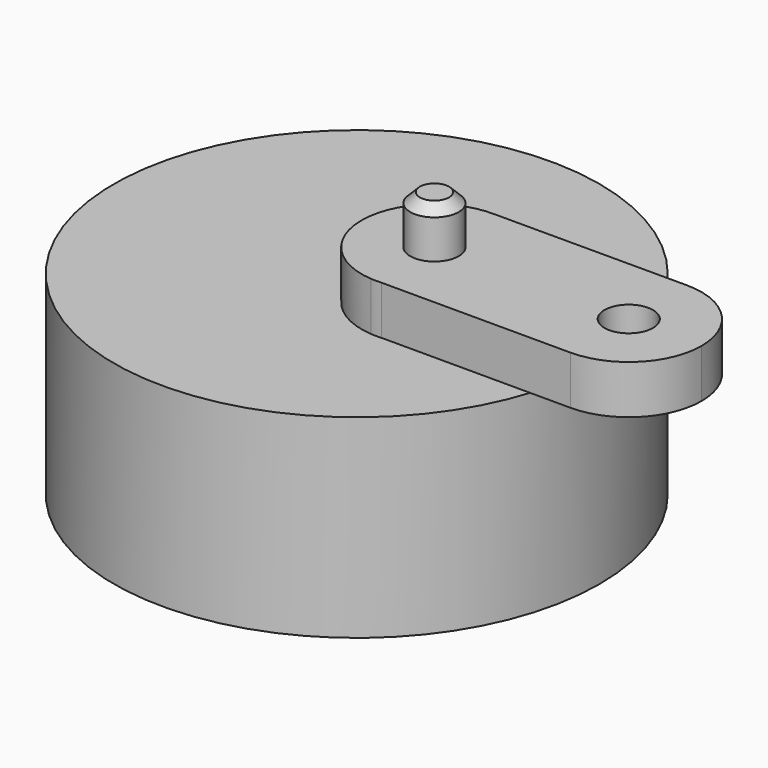
from build123d import *

# Parameters (mm, degrees)
F0_R          = 50
F1_DEPTH      = 20
F1_DEPTH_BACK = 20
F2_R          = 5
F3_DEPTH      = 40.001
F4_R          = 5
F5_DEPTH      = 40
F6_SIZE       = 2
F7_R          = 5
F8_DEPTH      = 10
F9_R          = 5
F10_DEPTH     = 50.001


with BuildPart() as f1:
    # F0 (on Top) → F1 (new body, two sides)
    with BuildSketch(Plane.XY) as f1_sk:
        Circle(F0_R)
    extrude(amount=F1_DEPTH)
    extrude(f1_sk.sketch, amount=-F1_DEPTH_BACK)

    # F2 (on face) → F3 (cut, through all)
    with BuildSketch(Plane.XY.offset(20)):
        with Locations((16, 0)):
            Circle(F2_R)
    extrude(amount=-F3_DEPTH, mode=Mode.SUBTRACT)


with BuildPart() as f5:
    # F4 (on Top) → F5 (new body)
    with BuildSketch(Plane.XY):
        with Locations((16, 0)):
            Circle(F4_R)
    extrude(amount=F5_DEPTH)

    # F6
    f6_edges = [f5.edges().sort_by_distance(p)[0] for p in [
        (11, 0, 40),
        (11, 0, 0),
    ]]
    chamfer(f6_edges, length=F6_SIZE)


with BuildPart() as f8:
    # F7 (on face) → F8 (new body)
    with BuildSketch(Plane.XY.offset(20)):
        with BuildLine():
            ThreePointArc((17.066113, -14.962065), (26.97706, -10.222727), (31, 0))
            ThreePointArc((31, 0), (26.744821, 10.466557), (16.39349, 14.994838))
            ThreePointArc((16.39349, 14.994838), (1.018492, 0.744586), (14.904727, -14.959959))
            Line((14.904727, -14.959959), (17.066113, -14.962065))
        make_face()
        with Locations((16, 0)):
            Circle(F7_R, mode=Mode.SUBTRACT)
        with BuildLine():
            ThreePointArc((16.39349, 14.994838), (26.744821, 10.466557), (31, 0))
            ThreePointArc((31, 0), (26.97706, -10.222727), (17.066113, -14.962065))
            Line((17.066113, -14.962065), (55.985382, -14.999993))
            ThreePointArc((55.985382, -14.999993), (41.000001, 0.006331), (55.998045, 15))
            Line((55.998045, 15), (16.39349, 14.994838))
        make_face()
        with BuildLine():
            ThreePointArc((14.904727, -14.959959), (15.985382, -14.999993), (17.066113, -14.962065))
            Line((17.066113, -14.962065), (14.904727, -14.959959))
        make_face()
        with BuildLine():
            ThreePointArc((71, 0), (66.60591, 10.607293), (55.998045, 15))
            ThreePointArc((55.998045, 15), (41.000001, 0.006331), (55.985382, -14.999993))
            ThreePointArc((55.985382, -14.999993), (66.601432, -10.611769), (71, 0))
        make_face()
    extrude(amount=F8_DEPTH)

    # F9 (on face) → F10 (cut, through all)
    with BuildSketch(Plane.XY.offset(30)):
        with Locations((56, 0)):
            Circle(F9_R)
    extrude(amount=-F10_DEPTH, mode=Mode.SUBTRACT)


solid = Compound([f1.part, f5.part, f8.part])
